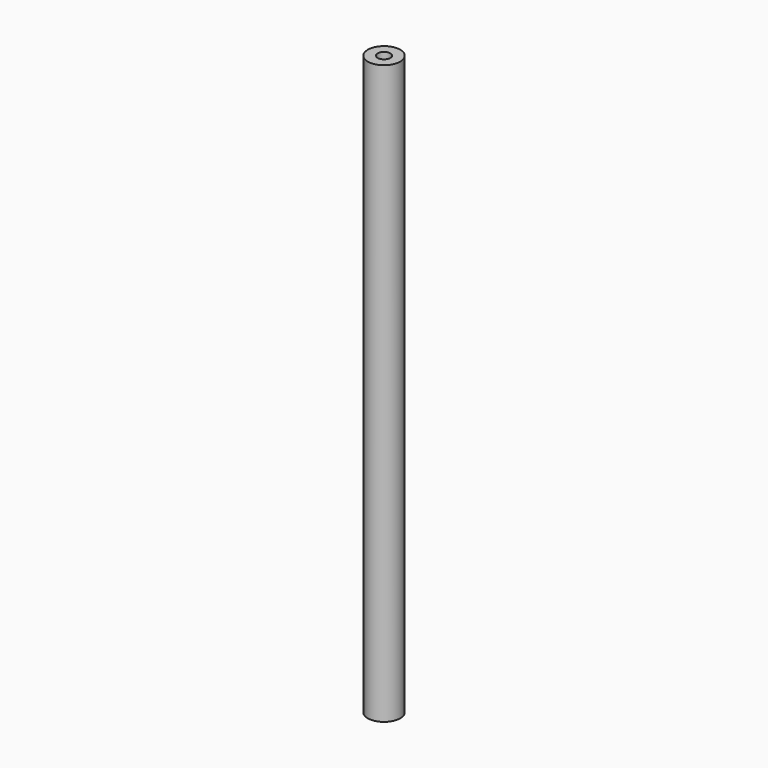
from build123d import *

# Parameters (mm, degrees)
CYLINDER_R     = 0.56
CYLINDER_DEPTH = 20
SKETCH_R       = 0.218838
POCKET_DEPTH   = 20.001


with BuildPart() as part:
    # Cylinder → Cylinder (join)
    with BuildSketch(Plane.XY):
        Circle(CYLINDER_R)
    extrude(amount=CYLINDER_DEPTH)

    # Sketch (on Face3 of Cylinder) → Pocket (cut, through all)
    with BuildSketch(Plane.XY.offset(20)):
        Circle(SKETCH_R)
    extrude(amount=-POCKET_DEPTH, mode=Mode.SUBTRACT)


solid = part.part
